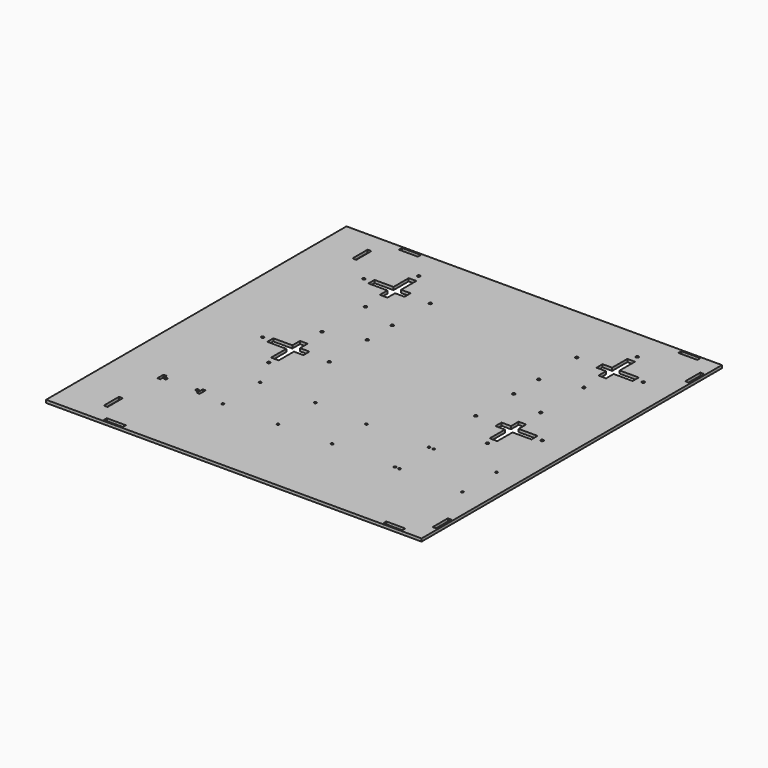
from build123d import *

# Parameters (mm, degrees)
SKETCH_W   = 395
SKETCH_H   = 395
SKETCH_R   = 1.25
SKETCH_R_2 = 1.5
SKETCH_W_2 = 20
SKETCH_H_2 = 4
SKETCH_W_3 = 4
SKETCH_H_3 = 20
SKETCH_W_4 = 3
SKETCH_H_4 = 8
PAD_DEPTH  = 3


with BuildPart() as part:
    # Sketch → Pad (new body)
    with BuildSketch(Plane.XY):
        Rectangle(SKETCH_W, SKETCH_H)
        with Locations((-21.5, -63.5)):
            Circle(SKETCH_R, mode=Mode.SUBTRACT)
        with Locations((-21.5, -112.5)):
            Circle(SKETCH_R, mode=Mode.SUBTRACT)
        with Locations((-58, 133.5)):
            Circle(SKETCH_R_2, mode=Mode.SUBTRACT)
        with Locations((96, 133.5)):
            Circle(SKETCH_R_2, mode=Mode.SUBTRACT)
        with Locations((-58, 0.5)):
            Circle(SKETCH_R_2, mode=Mode.SUBTRACT)
        with Locations((96, 0.5)):
            Circle(SKETCH_R_2, mode=Mode.SUBTRACT)
        with Locations((-58, 83.5)):
            Circle(SKETCH_R_2, mode=Mode.SUBTRACT)
        with Locations((-58, 50.5)):
            Circle(SKETCH_R_2, mode=Mode.SUBTRACT)
        with Locations((96, 83.5)):
            Circle(SKETCH_R_2, mode=Mode.SUBTRACT)
        with Locations((96, 50.5)):
            Circle(SKETCH_R_2, mode=Mode.SUBTRACT)
        with Locations((-128, 133.5)):
            Circle(SKETCH_R_2, mode=Mode.SUBTRACT)
        with Locations((-96, 165.5)):
            Circle(SKETCH_R_2, mode=Mode.SUBTRACT)
        with Locations((-96, 95.5)):
            Circle(SKETCH_R_2, mode=Mode.SUBTRACT)
        with Locations((-96, 38.5)):
            Circle(SKETCH_R_2, mode=Mode.SUBTRACT)
        with Locations((-128, 0.5)):
            Circle(SKETCH_R_2, mode=Mode.SUBTRACT)
        with Locations((-96, -31.5)):
            Circle(SKETCH_R_2, mode=Mode.SUBTRACT)
        with Locations((134, -31.5)):
            Circle(SKETCH_R_2, mode=Mode.SUBTRACT)
        with Locations((166, 0.5)):
            Circle(SKETCH_R_2, mode=Mode.SUBTRACT)
        with Locations((134, 38.5)):
            Circle(SKETCH_R_2, mode=Mode.SUBTRACT)
        with Locations((134, 95.5)):
            Circle(SKETCH_R_2, mode=Mode.SUBTRACT)
        with Locations((166, 133.5)):
            Circle(SKETCH_R_2, mode=Mode.SUBTRACT)
        with Locations((134, 165.5)):
            Circle(SKETCH_R_2, mode=Mode.SUBTRACT)
        with Locations((35, -67)):
            Circle(SKETCH_R, mode=Mode.SUBTRACT)
        with Locations((35, -112)):
            Circle(SKETCH_R, mode=Mode.SUBTRACT)
        with Locations((101, -67)):
            Circle(SKETCH_R, mode=Mode.SUBTRACT)
        with Locations((106, -67)):
            Circle(SKETCH_R, mode=Mode.SUBTRACT)
        with Locations((172, -67)):
            Circle(SKETCH_R, mode=Mode.SUBTRACT)
        with Locations((172, -112)):
            Circle(SKETCH_R, mode=Mode.SUBTRACT)
        with Locations((106, -112)):
            Circle(SKETCH_R, mode=Mode.SUBTRACT)
        with Locations((101, -112)):
            Circle(SKETCH_R, mode=Mode.SUBTRACT)
        with Locations((-79.5, -63.5)):
            Circle(SKETCH_R, mode=Mode.SUBTRACT)
        with Locations((-79.5, -112.5)):
            Circle(SKETCH_R, mode=Mode.SUBTRACT)
        with Locations((-144.2, -106.5)):
            Circle(SKETCH_R_2, mode=Mode.SUBTRACT)
        with Locations((-111.3, -106.5)):
            Circle(SKETCH_R_2, mode=Mode.SUBTRACT)
        Polygon((-100, 157.5), (-92, 157.5), (-92, 137.5), (-82, 137.5), (-82, 129.5), (-92, 129.5), (-92, 119.5), (-100, 119.5), (-100, 129.5), (-120, 129.5), (-120, 137.5), (-100, 137.5), align=None, mode=Mode.SUBTRACT)
        Polygon((120, 137.5), (130, 137.5), (130, 157.5), (138, 157.5), (138, 137.5), (158, 137.5), (158, 129.5), (138, 129.5), (138, 119.5), (130, 119.5), (130, 129.5), (120, 129.5), align=None, mode=Mode.SUBTRACT)
        Polygon((-100, 14.5), (-92, 14.5), (-92, 4.5), (-82, 4.5), (-82, -3.5), (-92, -3.5), (-92, -23.5), (-100, -23.5), (-100, -3.5), (-120, -3.5), (-120, 4.5), (-100, 4.5), align=None, mode=Mode.SUBTRACT)
        Polygon((130, 14.5), (138, 14.5), (138, 4.5), (158, 4.5), (158, -3.5), (138, -3.5), (138, -23.5), (130, -23.5), (130, -3.5), (120, -3.5), (120, 4.5), (130, 4.5), align=None, mode=Mode.SUBTRACT)
        with Locations((166, 194)):
            Rectangle(SKETCH_W_2, SKETCH_H_2, mode=Mode.SUBTRACT)
        with Locations((194, 166)):
            Rectangle(SKETCH_W_3, SKETCH_H_3, mode=Mode.SUBTRACT)
        with Locations((-128, 194)):
            Rectangle(SKETCH_W_2, SKETCH_H_2, mode=Mode.SUBTRACT)
        with Locations((-156, 166)):
            Rectangle(SKETCH_W_3, SKETCH_H_3, mode=Mode.SUBTRACT)
        with Locations((-152, -166)):
            Rectangle(SKETCH_W_3, SKETCH_H_3, mode=Mode.SUBTRACT)
        with Locations((-128, -194)):
            Rectangle(SKETCH_W_2, SKETCH_H_2, mode=Mode.SUBTRACT)
        with Locations((166, -194)):
            Rectangle(SKETCH_W_2, SKETCH_H_2, mode=Mode.SUBTRACT)
        with Locations((194, -166)):
            Rectangle(SKETCH_W_3, SKETCH_H_3, mode=Mode.SUBTRACT)
        with Locations((-107, -106.5)):
            Rectangle(SKETCH_W_4, SKETCH_H_4, mode=Mode.SUBTRACT)
        with Locations((-148.5, -106.5)):
            Rectangle(SKETCH_W_4, SKETCH_H_4, mode=Mode.SUBTRACT)
    extrude(amount=PAD_DEPTH)


with BuildPart() as part_1:
    # Body placement: moved
    add(part.part.moved(Location((200, -200, 0))))


solid = part_1.part
